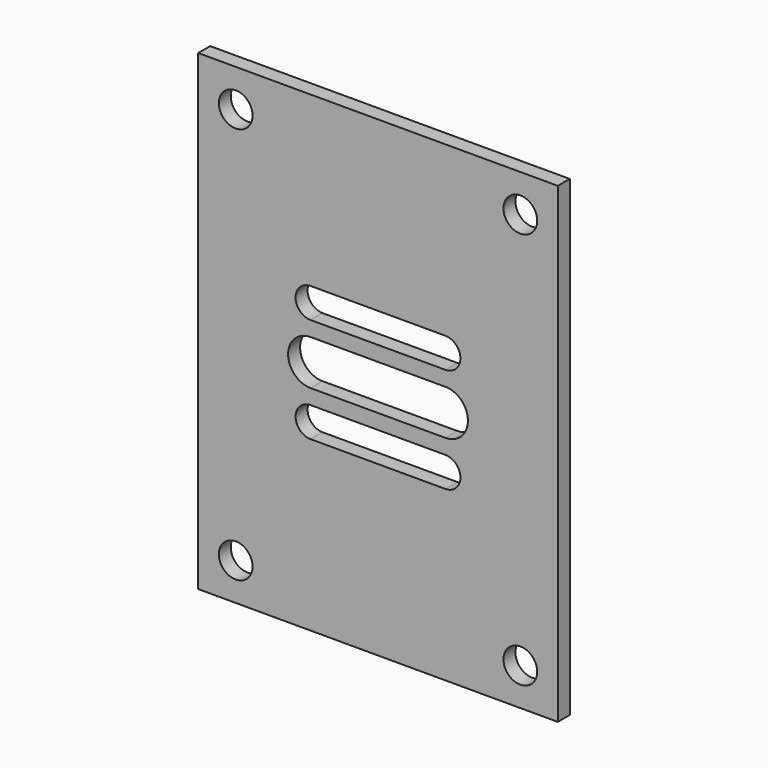
from build123d import *

# Parameters (mm, degrees)
F0_W     = 48
F0_H     = 63
F0_R     = 2.25
F1_DEPTH = 2


with BuildPart() as f1:
    # F0 (on Front) → F1 (new body)
    with BuildSketch(Plane.XZ):
        Rectangle(F0_W, F0_H)
        with Locations((-19, -26.5)):
            Circle(F0_R, mode=Mode.SUBTRACT)
        with Locations((19, -26.5)):
            Circle(F0_R, mode=Mode.SUBTRACT)
        with BuildLine():
            ThreePointArc((9, -5), (11, -7), (9, -9))
            Line((9, -9), (-9, -9))
            ThreePointArc((-9, -9), (-11, -7), (-9, -5))
            Line((-9, -5), (9, -5))
        make_face(mode=Mode.SUBTRACT)
        with Locations((-19, 26.5)):
            Circle(F0_R, mode=Mode.SUBTRACT)
        with BuildLine():
            Line((-9, 3), (9, 3))
            ThreePointArc((9, 3), (12, 0), (9, -3))
            Line((9, -3), (-9, -3))
            ThreePointArc((-9, -3), (-12, 0), (-9, 3))
        make_face(mode=Mode.SUBTRACT)
        with BuildLine():
            ThreePointArc((9, 9), (11, 7), (9, 5))
            Line((9, 5), (-9, 5))
            ThreePointArc((-9, 5), (-11, 7), (-9, 9))
            Line((-9, 9), (9, 9))
        make_face(mode=Mode.SUBTRACT)
        with Locations((19, 26.5)):
            Circle(F0_R, mode=Mode.SUBTRACT)
    extrude(amount=F1_DEPTH)


solid = f1.part
